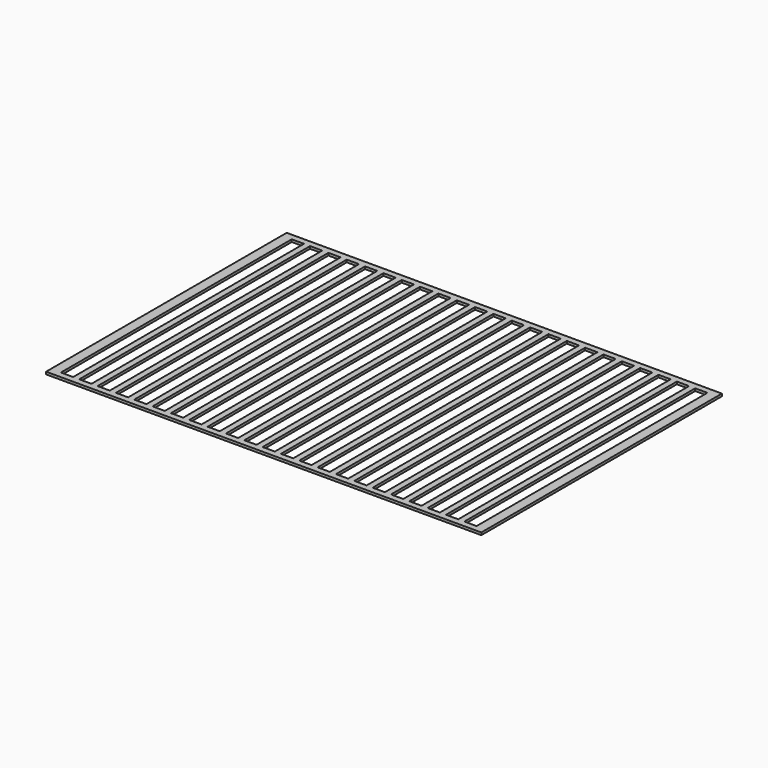
from build123d import *

# Parameters (mm, degrees)
F0_W     = 356
F0_H     = 246
F1_DEPTH = 2
F2_W     = 10
F2_H     = 236
F3_DEPTH = 5


with BuildPart() as f1:
    # F0 (on Top) → F1 (new body)
    with BuildSketch(Plane.XY):
        Rectangle(F0_W, F0_H)
    extrude(amount=F1_DEPTH)

    # F2 (on Top) → F3 (cut)
    with BuildSketch(Plane.XY):
        with Locations((-164.875, 0)):
            Rectangle(F2_W, F2_H)
        with Locations((-149.875, 0)):
            Rectangle(F2_W, F2_H)
        with Locations((-134.875, 0)):
            Rectangle(F2_W, F2_H)
        with Locations((-119.875, 0)):
            Rectangle(F2_W, F2_H)
        with Locations((-104.875, 0)):
            Rectangle(F2_W, F2_H)
        with Locations((-89.875, 0)):
            Rectangle(F2_W, F2_H)
        with Locations((-74.875, 0)):
            Rectangle(F2_W, F2_H)
        with Locations((-59.875, 0)):
            Rectangle(F2_W, F2_H)
        with Locations((-44.875, 0)):
            Rectangle(F2_W, F2_H)
        with Locations((-29.875, 0)):
            Rectangle(F2_W, F2_H)
        with Locations((-14.875, 0)):
            Rectangle(F2_W, F2_H)
        with Locations((0.125, 0)):
            Rectangle(F2_W, F2_H)
        with Locations((15.125, 0)):
            Rectangle(F2_W, F2_H)
        with Locations((30.125, 0)):
            Rectangle(F2_W, F2_H)
        with Locations((45.125, 0)):
            Rectangle(F2_W, F2_H)
        with Locations((60.125, 0)):
            Rectangle(F2_W, F2_H)
        with Locations((75.125, 0)):
            Rectangle(F2_W, F2_H)
        with Locations((90.125, 0)):
            Rectangle(F2_W, F2_H)
        with Locations((105.125, 0)):
            Rectangle(F2_W, F2_H)
        with Locations((120.125, 0)):
            Rectangle(F2_W, F2_H)
        with Locations((135.125, 0)):
            Rectangle(F2_W, F2_H)
        with Locations((150.125, 0)):
            Rectangle(F2_W, F2_H)
        with Locations((165.125, 0)):
            Rectangle(F2_W, F2_H)
    extrude(amount=F3_DEPTH, mode=Mode.SUBTRACT)


solid = f1.part
